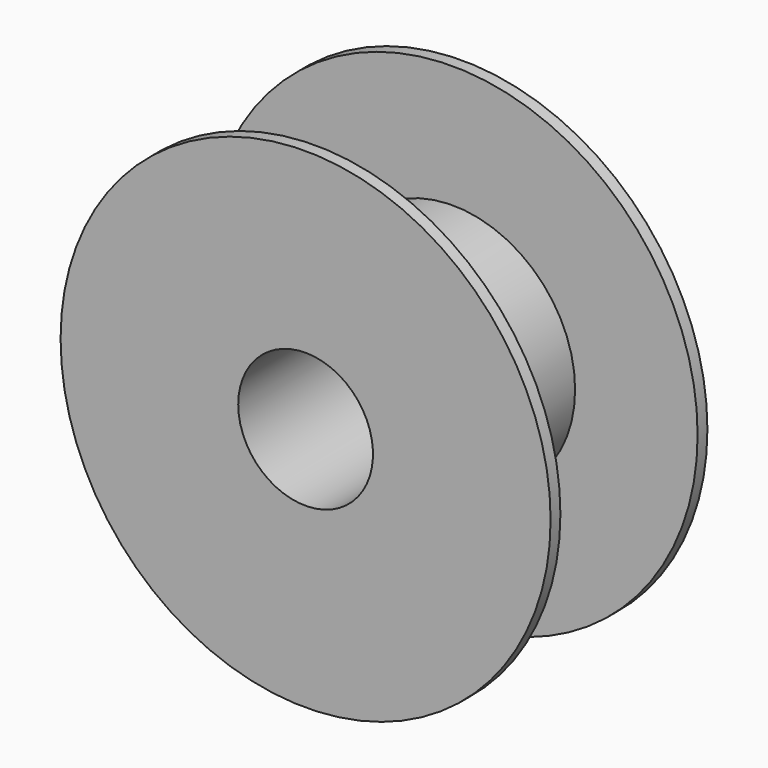
from build123d import *

# Parameters (mm, degrees)
F0_R     = 50
F1_DEPTH = 80
F2_R     = 100
F3_DEPTH = 5
F4_R     = 100
F5_DEPTH = 5
F6_R     = 27.5
F7_DEPTH = 100


with BuildPart() as f1:
    # F0 (on Front) → F1 (new body)
    with BuildSketch(Plane.XZ):
        Circle(F0_R)
    extrude(amount=F1_DEPTH)

    # F2 (on Front) → F3 (join)
    with BuildSketch(Plane.XZ):
        Circle(F2_R)
    extrude(amount=F3_DEPTH)

    # F4 (on face) → F5 (join)
    with BuildSketch(Plane.XZ.offset(80)):
        Circle(F4_R)
    extrude(amount=-F5_DEPTH)

    # F6 (on face) → F7 (cut)
    with BuildSketch(Plane(origin=(0, 0, 0), x_dir=(-1, 0, 0), z_dir=(0, 1, 0))):
        Circle(F6_R)
    extrude(amount=-F7_DEPTH, mode=Mode.SUBTRACT)


solid = f1.part
